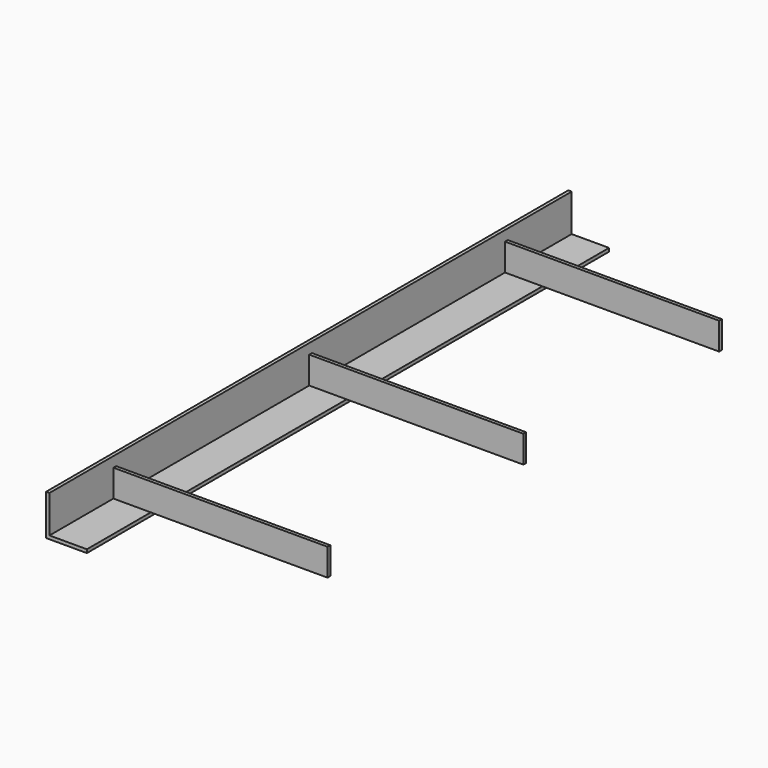
from build123d import *

# Parameters (mm, degrees)
F1_DEPTH = 609.6
F2_W     = 3.175
F2_H     = 25.4
F3_DEPTH = 203.2


with BuildPart() as f1:
    # F0 (on Front) → F1 (new body)
    with BuildSketch(Plane.XZ):
        Polygon((3.175, 38.1), (0, 38.1), (0, 0), (38.1, 0), (38.1, 3.175), (3.175, 3.175), align=None)
    extrude(amount=F1_DEPTH)

    # F2 (on Right) → F3 (join)
    with BuildSketch(Plane.YZ):
        with Locations((-76.2, 15.875)):
            Rectangle(F2_W, F2_H)
        with Locations((-304.8, 15.875)):
            Rectangle(F2_W, F2_H)
        with Locations((-533.4, 15.875)):
            Rectangle(F2_W, F2_H)
    extrude(amount=F3_DEPTH)


solid = f1.part
